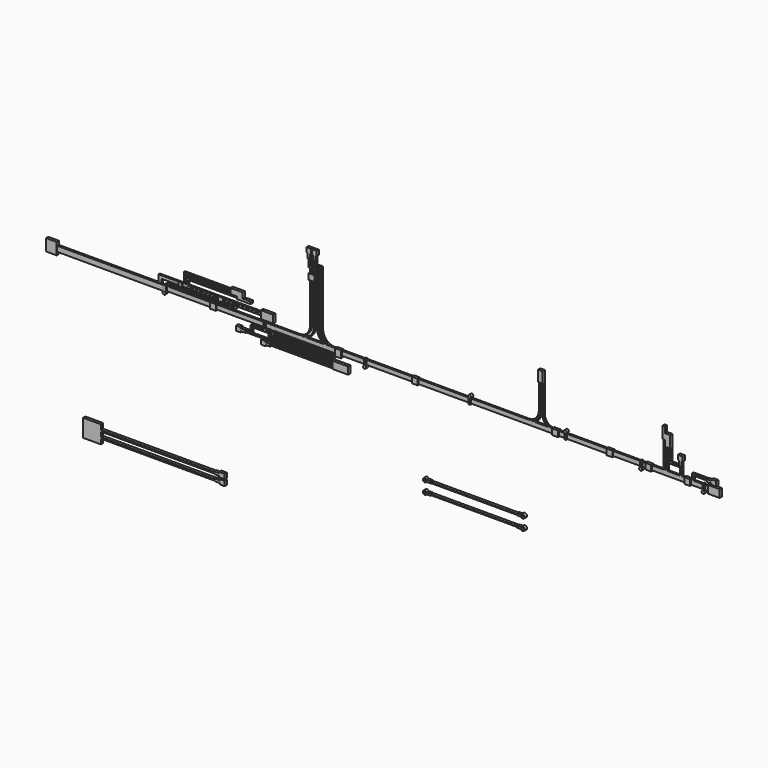
from build123d import *

# Parameters (mm, degrees)
F0_W     = 22.86
F0_H     = 25.4
F1_DEPTH = 6.096
F0_W_2   = 25.4
F0_H_2   = 16.764
F0_W_3   = 26.67
F0_R     = 2.3635919975
F0_W_4   = 12.7
F0_H_3   = 12.7
F0_W_5   = 34.036
F0_H_4   = 15.748
F0_W_6   = 10.16
F0_H_5   = 5.08
F0_H_6   = 15.3304640275
F0_H_7   = 23.622
F0_W_7   = 5.08
F0_H_8   = 10.16
F0_W_8   = 92.964
F0_H_9   = 1.8587335944
F0_W_9   = 244.618363442
F0_H_10  = 3.175
F0_W_10  = 8.0604091395
F0_W_11  = 246.38
F0_W_12  = 7.62
F0_W_13  = 5.960818279
F2_W     = 6.4132213593
F2_H     = 10.1765891636
F2_W_2   = 0.9059309959
F2_H_2   = 5.6318921805
F2_W_3   = 3.556
F2_H_3   = 18.4741660447
F2_H_4   = 3.048
F2_W_4   = 6.957018885
F2_H_5   = 9.3531730579
F2_H_6   = 10.0921660447
F2_W_5   = 2.2376532227
F2_H_7   = 0.7623659463
F2_W_6   = 1.7305150948
F2_H_8   = 2.188667655
F2_W_7   = 129.8955763153
F2_H_9   = 5.3835893269
F2_W_8   = 138.047620504
F2_W_9   = 9.0667009354
F2_H_10  = 1.905
F2_H_11  = 15.8542529154
F2_W_10  = 6.8061466293
F2_H_12  = 2.4892325196
F2_W_11  = 0.0254
F2_W_12  = 1.5908556366
F2_W_13  = 1.9332304916
F2_W_14  = 128.8783483963
F2_W_15  = 4.3891017075
F2_W_16  = 186.9186
F2_W_17  = 9.9817093201
F2_H_13  = 1.7232894897
F2_W_18  = 3.81
F2_H_14  = 46.0375
F2_W_19  = 19.685
F2_H_15  = 3.81
F2_H_16  = 58.7375
F2_W_20  = 2.3290925112
F2_H_17  = 60.5155
F3_DEPTH = 3.81
F4_W     = 10.7395805091
F4_H     = 9.330553934
F5_DEPTH = 2.032
F4_W_2   = 7.62
F4_H_2   = 8.89


with BuildPart() as f1:
    # F0 (on Front) → F1 (new body)
    with BuildSketch(Plane.XZ):
        with Locations((-1273.3713472137, 0)):
            Rectangle(F0_W, F0_H)
    extrude(amount=F1_DEPTH)


with BuildPart() as f1b:
    # F0 (on Front) → F1, piece 2 (new body)
    with BuildSketch(Plane.XZ):
        with Locations((152.8386527863, 0)):
            Rectangle(F0_W_2, F0_H_2)
    extrude(amount=F1_DEPTH)


with BuildPart() as f1c:
    # F0 (on Front) → F1, piece 3 (new body)
    with BuildSketch(Plane.XZ):
        with Locations((-809.1863472137, 18.1140891636)):
            Rectangle(F0_W_3, F0_H_2)
    extrude(amount=F1_DEPTH)


with BuildPart() as f1d:
    # F0 (on Front) → F1, piece 4 (new body)
    with BuildSketch(Plane.XZ):
        Polygon((-844.1113472137, 35.6992552083), (-861.6373472137, 35.6992552083), (-874.0833472137, 35.6992552083), (-874.0833472137, 30.6192552083), (-844.1113472137, 30.6192552083), align=None)
        Polygon((-874.0833472137, 35.6992552083), (-861.6373472137, 35.6992552083), (-861.6373472137, 47.3832552083), (-888.0533472137, 47.3832552083), (-888.0533472137, 35.6992552083), align=None)
    extrude(amount=F1_DEPTH)


with BuildPart() as f1e:
    # F0 (on Front) → F1, piece 5 (new body)
    with BuildSketch(Plane.XZ):
        with BuildLine():
            Line((-895.1653472137, 8.2480996974), (-886.5293472137, 8.2480996974))
            ThreePointArc((-886.5293472137, 8.2480996974), (-878.4013472137, 10.2800996974), (-886.5293472137, 12.3120996974))
            Line((-886.5293472137, 12.3120996974), (-895.1653472137, 12.3120996974))
            Line((-895.1653472137, 12.3120996974), (-895.1653472137, 8.2480996974))
        make_face()
        with Locations((-882.7193472137, 10.2800996974)):
            Circle(F0_R, mode=Mode.SUBTRACT)
    extrude(amount=F1_DEPTH)


with BuildPart() as f1f:
    # F0 (on Front) → F1, piece 6 (new body)
    with BuildSketch(Plane.XZ):
        with BuildLine():
            Line((-1029.0233414084, 6.35), (-1032.5793530191, 6.35))
            Line((-1032.5793530191, 6.35), (-1032.611806955, -6.35))
            ThreePointArc((-1032.611806955, -6.35), (-1030.8338011497, -5.8054601035), (-1029.0557953443, -6.35))
            Line((-1029.0557953443, -6.35), (-1029.0233414084, 6.35))
        make_face()
        with BuildLine():
            ThreePointArc((-1029.0557953443, -6.35), (-1030.8338011497, -5.8054601035), (-1032.611806955, -6.35))
            Line((-1032.611806955, -6.35), (-1029.0557953443, -6.35))
        make_face()
        with BuildLine():
            Line((-1029.0557953443, -6.35), (-1032.611806955, -6.35))
            ThreePointArc((-1032.611806955, -6.35), (-1032.3230050591, -11.7845458219), (-1027.6588011497, -8.9804601035))
            ThreePointArc((-1027.6588011497, -8.9804601035), (-1028.0297154313, -7.491256194), (-1029.0557953443, -6.35))
        make_face()
    extrude(amount=F1_DEPTH)


with BuildPart() as f1g:
    # F0 (on Front) → F1, piece 7 (new body)
    with BuildSketch(Plane.XZ):
        with Locations((-925.6569551468, 0)):
            Rectangle(F0_W_4, F0_H_3)
    extrude(amount=F1_DEPTH)


with BuildPart() as f1h:
    # F0 (on Front) → F1, piece 8 (new body)
    with BuildSketch(Plane.XZ):
        with BuildLine():
            Line((-813.1233537366, -6.35), (-813.1233472137, 6.35))
            Line((-813.1233472137, 6.35), (-816.6793472137, 6.35))
            Line((-816.6793472137, 6.35), (-816.6793537366, -6.35))
            ThreePointArc((-816.6793537366, -6.35), (-814.9013537366, -5.8054640275), (-813.1233537366, -6.35))
        make_face()
        with BuildLine():
            ThreePointArc((-811.7263537366, -8.9804640275), (-812.0972696615, -7.4912570238), (-813.1233537366, -6.35))
            ThreePointArc((-813.1233537366, -6.35), (-814.9013537366, -5.8054640275), (-816.6793537366, -6.35))
            ThreePointArc((-816.6793537366, -6.35), (-816.3905607403, -11.7845481026), (-811.7263537366, -8.9804640275))
        make_face()
    extrude(amount=F1_DEPTH)


with BuildPart() as f1i:
    # F0 (on Front) → F1, piece 9 (new body)
    with BuildSketch(Plane.XZ):
        with BuildLine():
            Line((-597.2233472137, 6.35), (-600.7793472137, 6.35))
            Line((-600.7793472137, 6.35), (-600.7793537366, -6.35))
            ThreePointArc((-600.7793537366, -6.35), (-599.0013537366, -5.8054640275), (-597.2233537366, -6.35))
            Line((-597.2233537366, -6.35), (-597.2233472137, 6.35))
        make_face()
        with BuildLine():
            ThreePointArc((-597.2233537366, -6.35), (-599.0013537366, -5.8054640275), (-600.7793537366, -6.35))
            ThreePointArc((-600.7793537366, -6.35), (-600.4905607403, -11.7845481026), (-595.8263537366, -8.9804640275))
            ThreePointArc((-595.8263537366, -8.9804640275), (-596.1972696615, -7.4912570238), (-597.2233537366, -6.35))
        make_face()
    extrude(amount=F1_DEPTH)


with BuildPart() as f1j:
    # F0 (on Front) → F1, piece 10 (new body)
    with BuildSketch(Plane.XZ):
        with Locations((-651.5793472137, -27.0144640275)):
            Rectangle(F0_W_5, F0_H_4)
    extrude(amount=F1_DEPTH)


with BuildPart() as f1k:
    # F0 (on Front) → F1, piece 11 (new body)
    with BuildSketch(Plane.XZ):
        Polygon((-812.3613472137, -28.6287721895), (-822.5213472137, -28.6287721895), (-822.5213472137, -38.7887721895), (-812.3613472137, -38.7887721895), (-812.3613472137, -36.2487721895), (-812.3613472137, -31.1687721895), align=None)
        with Locations((-807.2813472137, -33.7087721895)):
            Rectangle(F0_W_6, F0_H_5)
    extrude(amount=F1_DEPTH)


with BuildPart() as f1l:
    # F0 (on Front) → F1, piece 12 (new body)
    with BuildSketch(Plane.XZ):
        Polygon((-865.7013472137, -19.8714235197), (-875.8613472137, -19.8714235197), (-875.8613472137, -30.0314235197), (-865.7013472137, -30.0314235197), (-865.7013472137, -27.4914235197), (-865.7013472137, -22.4114235197), align=None)
        with Locations((-860.6213472137, -24.9514235197)):
            Rectangle(F0_W_6, F0_H_5)
    extrude(amount=F1_DEPTH)


with BuildPart() as f1m:
    # F0 (on Front) → F1, piece 13 (new body)
    with BuildSketch(Plane.XZ):
        with Locations((-656.1513472137, -1.3152320138)):
            Rectangle(F0_W_4, F0_H_6)
    extrude(amount=F1_DEPTH)


with BuildPart() as f1n:
    # F0 (on Front) → F1, piece 14 (new body)
    with BuildSketch(Plane.XZ):
        Polygon((-714.1644205284, 177.8), (-724.3244205284, 177.8), (-724.3244205284, 167.64), (-721.7844205284, 167.64), (-716.7044205284, 167.64), (-714.1644205284, 167.64), align=None)
        Polygon((-716.7044205284, 167.64), (-721.7844205284, 167.64), (-721.7844205284, 157.48), (-719.6513472137, 157.48), (-716.7044205284, 157.48), align=None)
    extrude(amount=F1_DEPTH)


with BuildPart() as f1o:
    # F0 (on Front) → F1, piece 15 (new body)
    with BuildSketch(Plane.XZ):
        Polygon((-704.8182738991, 167.64), (-702.2782738991, 167.64), (-702.2782738991, 177.8), (-712.4382738991, 177.8), (-712.4382738991, 167.64), (-709.8982738991, 167.64), align=None)
        Polygon((-704.8182738991, 157.48), (-704.8182738991, 167.64), (-709.8982738991, 167.64), (-709.8982738991, 157.48), (-706.9513472137, 157.48), align=None)
    extrude(amount=F1_DEPTH)


with BuildPart() as f1p:
    # F0 (on Front) → F1, piece 16 (new body)
    with BuildSketch(Plane.XZ):
        with Locations((-713.3013472137, 123.825)):
            Rectangle(F0_W_4, F0_H_3)
    extrude(amount=F1_DEPTH)


with BuildPart() as f1q:
    # F0 (on Front) → F1, piece 17 (new body)
    with BuildSketch(Plane.XZ):
        with BuildLine():
            ThreePointArc((-371.1633472137, 6.35), (-372.9413472137, 5.8054640275), (-374.7193472137, 6.35))
            Line((-374.7193472137, 6.35), (-374.7193537366, -6.35))
            Line((-374.7193537366, -6.35), (-371.1633537366, -6.35))
            Line((-371.1633537366, -6.35), (-371.1633472137, 6.35))
        make_face()
        with BuildLine():
            ThreePointArc((-369.7663472137, 8.9804640275), (-374.4305542175, 11.7845481026), (-374.7193472137, 6.35))
            Line((-374.7193472137, 6.35), (-371.1633472137, 6.35))
            ThreePointArc((-371.1633472137, 6.35), (-370.1372631387, 7.4912570238), (-369.7663472137, 8.9804640275))
        make_face()
        with BuildLine():
            Line((-371.1633472137, 6.35), (-374.7193472137, 6.35))
            ThreePointArc((-374.7193472137, 6.35), (-372.9413472137, 5.8054640275), (-371.1633472137, 6.35))
        make_face()
    extrude(amount=F1_DEPTH)


with BuildPart() as f1r:
    # F0 (on Front) → F1, piece 18 (new body)
    with BuildSketch(Plane.XZ):
        with Locations((-491.0513472137, 0)):
            Rectangle(F0_W_4, F0_H_3)
    extrude(amount=F1_DEPTH)


with BuildPart() as f1s:
    # F0 (on Front) → F1, piece 19 (new body)
    with BuildSketch(Plane.XZ):
        with BuildLine():
            ThreePointArc((-165.4233406909, 6.35), (-167.2013406909, 5.8054640275), (-168.9793406909, 6.35))
            Line((-168.9793406909, 6.35), (-168.9793472137, -6.35))
            Line((-168.9793472137, -6.35), (-165.4233472137, -6.35))
            Line((-165.4233472137, -6.35), (-165.4233406909, 6.35))
        make_face()
        with BuildLine():
            ThreePointArc((-164.0263406909, 8.9804640275), (-168.6905476947, 11.7845481026), (-168.9793406909, 6.35))
            Line((-168.9793406909, 6.35), (-165.4233406909, 6.35))
            ThreePointArc((-165.4233406909, 6.35), (-164.3972566159, 7.4912570238), (-164.0263406909, 8.9804640275))
        make_face()
        with BuildLine():
            Line((-165.4233406909, 6.35), (-168.9793406909, 6.35))
            ThreePointArc((-168.9793406909, 6.35), (-167.2013406909, 5.8054640275), (-165.4233406909, 6.35))
        make_face()
    extrude(amount=F1_DEPTH)


with BuildPart() as f1t:
    # F0 (on Front) → F1, piece 20 (new body)
    with BuildSketch(Plane.XZ):
        with BuildLine():
            Line((-2.8633406909, 6.35), (-6.4193406909, 6.35))
            Line((-6.4193406909, 6.35), (-6.4193472137, -6.35))
            ThreePointArc((-6.4193472137, -6.35), (-4.6413472137, -5.8054640275), (-2.8633472137, -6.35))
            Line((-2.8633472137, -6.35), (-2.8633406909, 6.35))
        make_face()
        with BuildLine():
            ThreePointArc((-2.8633472137, -6.35), (-4.6413472137, -5.8054640275), (-6.4193472137, -6.35))
            ThreePointArc((-6.4193472137, -6.35), (-6.1305542175, -11.7845481026), (-1.4663472137, -8.9804640275))
            ThreePointArc((-1.4663472137, -8.9804640275), (-1.8372631387, -7.4912570238), (-2.8633472137, -6.35))
        make_face()
    extrude(amount=F1_DEPTH)


with BuildPart() as f1u:
    # F0 (on Front) → F1, piece 21 (new body)
    with BuildSketch(Plane.XZ):
        with Locations((-188.7913537366, 0)):
            Rectangle(F0_W_4, F0_H_3)
    extrude(amount=F1_DEPTH)


with BuildPart() as f1v:
    # F0 (on Front) → F1, piece 22 (new body)
    with BuildSketch(Plane.XZ):
        with Locations((-71.9513472137, 0)):
            Rectangle(F0_W_4, F0_H_3)
    extrude(amount=F1_DEPTH)


with BuildPart() as f1w:
    # F0 (on Front) → F1, piece 23 (new body)
    with BuildSketch(Plane.XZ):
        with Locations((11.8686527863, 0)):
            Rectangle(F0_W_4, F0_H_3)
    extrude(amount=F1_DEPTH)


with BuildPart() as f1x:
    # F0 (on Front) → F1, piece 24 (new body)
    with BuildSketch(Plane.XZ):
        with Locations((95.6886527863, 0)):
            Rectangle(F0_W_4, F0_H_3)
    extrude(amount=F1_DEPTH)


with BuildPart() as f1y:
    # F0 (on Front) → F1, piece 25 (new body)
    with BuildSketch(Plane.XZ):
        with BuildLine():
            ThreePointArc((128.2006527863, -6.35), (128.4894457825, -11.7845481026), (133.1536527863, -8.9804640275))
            ThreePointArc((133.1536527863, -8.9804640275), (132.7827368613, -7.4912570238), (131.7566527863, -6.35))
            ThreePointArc((131.7566527863, -6.35), (129.9786527863, -5.8054640275), (128.2006527863, -6.35))
        make_face()
        with BuildLine():
            ThreePointArc((128.2006527863, -6.35), (129.9786527863, -5.8054640275), (131.7566527863, -6.35))
            Line((131.7566527863, -6.35), (131.7566593091, 6.35))
            Line((131.7566593091, 6.35), (128.2006593091, 6.35))
            Line((128.2006593091, 6.35), (128.2006527863, -6.35))
        make_face()
    extrude(amount=F1_DEPTH)


with BuildPart() as f1z:
    # F0 (on Front) → F1, piece 26 (new body)
    with BuildSketch(Plane.XZ):
        with Locations((-220.5413472137, 96.139)):
            Rectangle(F0_W_6, F0_H_7)
    extrude(amount=F1_DEPTH)


with BuildPart() as f1ba:
    # F0 (on Front) → F1, piece 27 (new body)
    with BuildSketch(Plane.XZ):
        Polygon((157.9186527863, 21.082), (147.7586527863, 21.082), (147.7586527863, 18.542), (147.7586527863, 13.462), (147.7586527863, 10.922), (157.9186527863, 10.922), align=None)
        with Locations((142.6786527863, 16.002)):
            Rectangle(F0_W_6, F0_H_5)
    extrude(amount=F1_DEPTH)


with BuildPart() as f1bb:
    # F0 (on Front) → F1, piece 28 (new body)
    with BuildSketch(Plane.XZ):
        Polygon((85.5286527863, 44.45), (75.3686527863, 44.45), (75.3686527863, 34.29), (77.9086527863, 34.29), (82.9886527863, 34.29), (85.5286527863, 34.29), align=None)
        with Locations((80.4486527863, 29.21)):
            Rectangle(F0_W_7, F0_H_8)
    extrude(amount=F1_DEPTH)


with BuildPart() as f1bc:
    # F0 (on Front) → F1, piece 29 (new body)
    with BuildSketch(Plane.XZ):
        Polygon((58.8586527863, 76.2), (47.4286527863, 76.2), (47.4286527863, 63.5), (47.4286527863, 50.8), (58.8586527863, 50.8), align=None)
        Polygon((47.4286527863, 63.5), (47.4286527863, 76.2), (47.4286527863, 88.9), (42.3486527863, 88.9), (42.3486527863, 63.5), align=None)
    extrude(amount=F1_DEPTH)


with BuildPart() as f1bd:
    # F0 (on Front) → F1, piece 30 (new body)
    with BuildSketch(Plane.XZ):
        with BuildLine():
            Line((-270.889007555, -183.1056954212), (-262.253007555, -183.1056954212))
            ThreePointArc((-262.253007555, -183.1056954212), (-254.125007555, -181.0736954212), (-262.253007555, -179.0416954212))
            Line((-262.253007555, -179.0416954212), (-270.889007555, -179.0416954212))
            Line((-270.889007555, -179.0416954212), (-270.889007555, -180.4856657982))
            Line((-270.889007555, -180.4856657982), (-270.889007555, -182.3443993926))
            Line((-270.889007555, -182.3443993926), (-270.889007555, -183.1056954212))
        make_face()
        with Locations((-258.443007555, -181.0736954212)):
            Circle(F0_R, mode=Mode.SUBTRACT)
        with Locations((-317.371007555, -181.4150325954)):
            Rectangle(F0_W_8, F0_H_9)
        with Locations((-410.335007555, -181.4150325954)):
            Rectangle(F0_W_8, F0_H_9)
        with BuildLine():
            Line((-456.817007555, -183.1056954212), (-456.817007555, -182.3443993926))
            Line((-456.817007555, -182.3443993926), (-456.817007555, -180.4856657982))
            Line((-456.817007555, -180.4856657982), (-456.817007555, -179.0416954212))
            Line((-456.817007555, -179.0416954212), (-465.453007555, -179.0416954212))
            ThreePointArc((-465.453007555, -179.0416954212), (-473.581007555, -181.0736954212), (-465.453007555, -183.1056954212))
            Line((-465.453007555, -183.1056954212), (-456.817007555, -183.1056954212))
        make_face()
        with Locations((-469.263007555, -181.0736954212)):
            Circle(F0_R, mode=Mode.SUBTRACT)
    extrude(amount=F1_DEPTH)


with BuildPart() as f1be:
    # F0 (on Front) → F1, piece 31 (new body)
    with BuildSketch(Plane.XZ):
        with BuildLine():
            Line((-270.889007555, -206.6441954918), (-262.253007555, -206.6441954918))
            ThreePointArc((-262.253007555, -206.6441954918), (-254.125007555, -204.6121954918), (-262.253007555, -202.5801954918))
            Line((-262.253007555, -202.5801954918), (-270.889007555, -202.5801954918))
            Line((-270.889007555, -202.5801954918), (-270.889007555, -203.3414915204))
            Line((-270.889007555, -203.3414915204), (-270.889007555, -205.2002251148))
            Line((-270.889007555, -205.2002251148), (-270.889007555, -206.6441954918))
        make_face()
        with Locations((-258.443007555, -204.6121954918)):
            Circle(F0_R, mode=Mode.SUBTRACT)
        Polygon((-363.853007555, -205.2002251148), (-270.889007555, -205.2002251148), (-270.889007555, -203.3414915204), (-363.853007555, -203.3414915204), (-456.817007555, -203.3414915204), (-456.817007555, -205.2002251148), align=None)
        with BuildLine():
            Line((-456.817007555, -206.6441954918), (-456.817007555, -205.2002251148))
            Line((-456.817007555, -205.2002251148), (-456.817007555, -203.3414915204))
            Line((-456.817007555, -203.3414915204), (-456.817007555, -202.5801954918))
            Line((-456.817007555, -202.5801954918), (-465.453007555, -202.5801954918))
            ThreePointArc((-465.453007555, -202.5801954918), (-473.581007555, -204.6121954918), (-465.453007555, -206.6441954918))
            Line((-465.453007555, -206.6441954918), (-456.817007555, -206.6441954918))
        make_face()
        with Locations((-469.263007555, -204.6121954918)):
            Circle(F0_R, mode=Mode.SUBTRACT)
    extrude(amount=F1_DEPTH)


with BuildPart() as f1bf:
    # F0 (on Front) → F1, piece 32 (new body)
    with BuildSketch(Plane.XZ):
        Polygon((-1166.9777904199, -301.9225907594), (-1205.0777904199, -301.9225907594), (-1205.0777904199, -340.0225907594), (-1166.9777904199, -340.0225907594), (-1166.9777904199, -329.2275907594), (-1166.9777904199, -326.0525907594), (-1166.9777904199, -315.8925907594), (-1166.9777904199, -312.7175907594), align=None)
        with Locations((-1044.6686086989, -314.3050907594)):
            Rectangle(F0_W_9, F0_H_10)
        Polygon((-922.3594269779, -311.7650907594), (-922.3594269779, -312.7175907594), (-914.2990178384, -312.7175907594), (-914.2990178384, -315.8925907594), (-922.3594269779, -315.8925907594), (-922.3594269779, -316.8450907594), (-912.1994269779, -316.8450907594), (-912.1994269779, -311.7650907594), align=None)
        with Locations((-918.3292224082, -314.3050907594)):
            Rectangle(F0_W_10, F0_H_10)
        with Locations((-1043.7877904199, -327.6400907594)):
            Rectangle(F0_W_11, F0_H_10)
        with Locations((-916.7877904199, -327.6400907594)):
            Rectangle(F0_W_12, F0_H_10)
        Polygon((-912.9777904199, -329.2275907594), (-920.5977904199, -329.2275907594), (-920.5977904199, -330.1800907594), (-910.4377904199, -330.1800907594), (-910.4377904199, -325.1000907594), (-920.5977904199, -325.1000907594), (-920.5977904199, -326.0525907594), (-912.9777904199, -326.0525907594), align=None)
        Polygon((-912.1994269779, -309.2250907594), (-912.1994269779, -311.7650907594), (-906.2386086989, -311.7650907594), (-906.2386086989, -316.8450907594), (-912.1994269779, -316.8450907594), (-912.1994269779, -319.3850907594), (-900.2777904199, -319.3850907594), (-900.2777904199, -309.2250907594), align=None)
        with Locations((-909.2190178384, -314.3050907594)):
            Rectangle(F0_W_13, F0_H_5)
        with Locations((-907.8977904199, -327.6400907594)):
            Rectangle(F0_W_7, F0_H_5)
        Polygon((-905.3577904199, -330.1800907594), (-910.4377904199, -330.1800907594), (-910.4377904199, -332.7200907594), (-900.2777904199, -332.7200907594), (-900.2777904199, -322.5600907594), (-910.4377904199, -322.5600907594), (-910.4377904199, -325.1000907594), (-905.3577904199, -325.1000907594), align=None)
    extrude(amount=F1_DEPTH)


with BuildPart() as f3:
    # F2 (on Front) → F3 (new body)
    with BuildSketch(Plane.XZ):
        with BuildLine():
            Line((-1078.5486698151, 4.7625), (-1261.9413472137, 4.7625))
            Line((-1261.9413472137, 4.7625), (-1261.9413472137, -4.7625))
            Line((-1261.9413472137, -4.7625), (-810.6971036753, -4.7625))
            Line((-810.6971036753, -4.7625), (-808.8622270752, -4.7625))
            Line((-808.8622270752, -4.7625), (-808.7352270752, -4.7625))
            Line((-808.7352270752, -4.7625), (-807.5762987137, -4.7625))
            Line((-807.5762987137, -4.7625), (-806.6703677177, -4.7625))
            Line((-806.6703677177, -4.7625), (-799.7133488328, -4.7625))
            Line((-799.7133488328, -4.7625), (-799.7133488328, -10.3943921805))
            Line((-799.7133488328, -10.3943921805), (-797.47569561, -10.3943921805))
            Line((-797.47569561, -10.3943921805), (-797.47569561, -4.7625))
            Line((-797.47569561, -4.7625), (-667.5801192947, -4.7625))
            Line((-667.5801192947, -4.7625), (-664.5321192947, -4.7625))
            Line((-664.5321192947, -4.7625), (140.1386527863, -4.7625))
            Line((140.1386527863, -4.7625), (140.1386527863, 4.7625))
            Line((140.1386527863, 4.7625), (107.6234768605, 4.7625))
            Line((107.6234768605, 4.7625), (103.8134768605, 4.7625))
            Line((103.8134768605, 4.7625), (82.3536527863, 4.7625))
            Line((82.3536527863, 4.7625), (78.5436527863, 4.7625))
            Line((78.5436527863, 4.7625), (51.2386527863, 4.7625))
            Line((51.2386527863, 4.7625), (47.4286527863, 4.7625))
            Line((47.4286527863, 4.7625), (46.1586527863, 4.7625))
            Line((46.1586527863, 4.7625), (42.3486527863, 4.7625))
            Line((42.3486527863, 4.7625), (-186.7075800792, 4.7625))
            ThreePointArc((-186.7075800792, 4.7625), (-196.4113472137, 2.4334074888), (-206.1151143483, 4.7625))
            Line((-206.1151143483, 4.7625), (-234.1434663815, 4.7625))
            ThreePointArc((-234.1434663815, 4.7625), (-224.1444484275, 15.7522545815), (-220.5250710249, 30.1625))
            Line((-220.5250710249, 30.1625), (-220.5250710249, 84.328))
            Line((-220.5250710249, 84.328), (-222.6665914059, 84.328))
            Line((-222.6665914059, 84.328), (-222.6665914059, 30.1625))
            ThreePointArc((-222.6665914059, 30.1625), (-226.92421768, 15.2185873545), (-238.4184833755, 4.7625))
            Line((-238.4184833755, 4.7625), (-240.7264788227, 4.7625))
            ThreePointArc((-240.7264788227, 4.7625), (-228.2914561196, 14.8492258224), (-223.6143350601, 30.1625))
            Line((-223.6143350601, 30.1625), (-223.6143350601, 84.328))
            Line((-223.6143350601, 84.328), (-225.6213472137, 84.328))
            Line((-225.6213472137, 84.328), (-225.6213472137, 30.1625))
            ThreePointArc((-225.6213472137, 30.1625), (-233.0608349716, 12.2019877579), (-251.0213472137, 4.7625))
            Line((-251.0213472137, 4.7625), (-667.7060494843, 4.7625))
            Line((-667.7060494843, 4.7625), (-677.2404529426, 4.7625))
            Line((-677.2404529426, 4.7625), (-686.3395170948, 4.7625))
            Line((-686.3395170948, 4.7625), (-706.9513472137, 4.7625))
            Line((-706.9513472137, 4.7625), (-709.8982738991, 4.7625))
            Line((-709.8982738991, 4.7625), (-716.7044205284, 4.7625))
            Line((-716.7044205284, 4.7625), (-719.6513472137, 4.7625))
            Line((-719.6513472137, 4.7625), (-725.2014680126, 4.7625))
            ThreePointArc((-725.2014680126, 4.7625), (-712.6809817133, 14.814419231), (-707.9650434074, 30.1625))
            Line((-707.9650434074, 30.1625), (-707.9650434074, 139.4370794296))
            Line((-707.9650434074, 139.4370794296), (-709.8982738991, 139.4370794296))
            Line((-709.8982738991, 139.4370794296), (-709.8982738991, 30.1625))
            ThreePointArc((-709.8982738991, 30.1625), (-716.8893208393, 12.6619158028), (-734.0140571465, 4.7949855902))
            Line((-734.0140571465, 4.7949855902), (-734.0140571465, 4.7625))
            Line((-734.0140571465, 4.7625), (-734.3005321648, 4.7625))
            ThreePointArc((-734.3005321648, 4.7625), (-721.5331629778, 14.7127172773), (-716.7044205284, 30.1625))
            Line((-716.7044205284, 30.1625), (-716.7044205284, 139.4370794296))
            Line((-716.7044205284, 139.4370794296), (-718.4349356232, 139.4370794296))
            Line((-718.4349356232, 139.4370794296), (-718.4349356232, 30.1625))
            ThreePointArc((-718.4349356232, 30.1625), (-725.874423381, 12.2019877579), (-743.8349356232, 4.7625))
            Line((-743.8349356232, 4.7625), (-1022.1653472137, 4.7625))
            Line((-1022.1653472137, 4.7625), (-1025.7213472137, 4.7625))
            Line((-1025.7213472137, 4.7625), (-1038.3222103119, 4.7625))
            Line((-1038.3222103119, 4.7625), (-1044.7354316711, 4.7625))
            Line((-1044.7354316711, 4.7625), (-1077.4735414505, 4.7625))
            Line((-1077.4735414505, 4.7625), (-1078.5486698151, 4.7625))
        make_face()
        with Locations((-1041.5288209915, 9.8507945818)):
            Rectangle(F2_W, F2_H)
        Polygon((-1044.7354316711, 21.2890891636), (-1044.7354316711, 14.9390891636), (-1038.3222103119, 14.9390891636), (-822.5213472137, 14.9390891636), (-822.5213472137, 17.9870891636), (-984.0653472137, 17.9870891636), (-984.0653472137, 18.2410891636), (-822.5213472137, 18.2410891636), (-822.5213472137, 21.2890891636), (-980.5093472137, 21.2890891636), (-984.0653472137, 21.2890891636), (-986.6053472137, 21.2890891636), (-990.1613472137, 21.2890891636), align=None)
        Polygon((-1025.7213472137, 12.0580996974), (-1025.7213472137, 4.7625), (-1022.1653472137, 4.7625), (-1022.1653472137, 8.5020996974), (-895.1653472137, 8.5020996974), (-895.1653472137, 12.0580996974), align=None)
        with Locations((-807.1233332157, -7.5784460903)):
            Rectangle(F2_W_2, F2_H_2)
        with Locations((-988.3833472137, 30.5261721859)):
            Rectangle(F2_W_3, F2_H_3)
        Polygon((-807.5762987137, -13.4423921805), (-807.5762987137, -10.3943921805), (-846.4746462784, -10.3943921805), (-846.4746462784, -13.4423921805), (-843.4266462784, -13.4423921805), align=None)
        with Locations((-807.1233332157, -11.9183921805)):
            Rectangle(F2_W_2, F2_H_4)
        Polygon((-990.1613472137, 43.3192552083), (-990.1613472137, 39.7632552083), (-986.6053472137, 39.7632552083), (-888.0533472137, 39.7632552083), (-888.0533472137, 43.3192552083), align=None)
        with Locations((-803.1918582752, -11.9183921805)):
            Rectangle(F2_W_4, F2_H_4)
        with Locations((-807.1233332157, -18.1189787095)):
            Rectangle(F2_W_2, F2_H_5)
        with Locations((-982.2873472137, 26.3351721859)):
            Rectangle(F2_W_3, F2_H_6)
        with Locations((-798.5945222214, -11.9183921805)):
            Rectangle(F2_W_5, F2_H_4)
        Polygon((-843.4266462784, -13.4423921805), (-846.4746462784, -13.4423921805), (-846.4746462784, -22.4114235197), (-846.4746462784, -24.3164235197), (-843.4266462784, -24.3164235197), align=None)
        with Locations((-807.1233332157, -23.1767482116)):
            Rectangle(F2_W_2, F2_H_7)
        Polygon((-721.7844205284, 139.4370794296), (-718.4349356232, 139.4370794296), (-718.4349356232, 141.6257470846), (-720.1935648918, 141.6257470846), (-721.7844205284, 141.6257470846), align=None)
        with Locations((-717.5696780758, 140.5314132571)):
            Rectangle(F2_W_6, F2_H_8)
        Polygon((-984.0653472137, 34.9372552083), (-984.0653472137, 31.3812552083), (-980.5093472137, 31.3812552083), (-874.0833472137, 31.3812552083), (-874.0833472137, 34.9372552083), align=None)
        with Locations((-732.5279074524, -11.9183921805)):
            Rectangle(F2_W_7, F2_H_4)
        with Locations((-798.5945222214, -16.134186844)):
            Rectangle(F2_W_5, F2_H_9)
        with Locations((-737.6465574657, -23.1767482116)):
            Rectangle(F2_W_8, F2_H_7)
        with Locations((-851.0079967461, -23.3639235197)):
            Rectangle(F2_W_9, F2_H_10)
        with Locations((-717.5696780758, 149.5528735423)):
            Rectangle(F2_W_6, F2_H_11)
        with Locations((-713.3013472137, 140.5314132571)):
            Rectangle(F2_W_10, F2_H_8)
        Polygon((-667.5801192947, -4.7625), (-667.5801192947, -10.3943921805), (-667.5801192947, -13.4423921805), (-664.5321192947, -13.4423921805), (-664.5321192947, -4.7625), align=None)
        with Locations((-798.5945222214, -20.0705977673)):
            Rectangle(F2_W_5, F2_H_12)
        with Locations((-668.6100472137, -23.1767482116)):
            Rectangle(F2_W_11, F2_H_7)
        with Locations((-720.9889927101, 149.5528735423)):
            Rectangle(F2_W_12, F2_H_11)
        with Locations((-708.9316586533, 140.5314132571)):
            Rectangle(F2_W_13, F2_H_8)
        with Locations((-733.0365214119, -20.0705977673)):
            Rectangle(F2_W_14, F2_H_12)
        Polygon((-668.5973472137, -23.5579311848), (-668.6227472137, -23.5579311848), (-668.6227472137, -25.5864235197), (-668.6227472137, -27.4914235197), (-668.6227472137, -32.1021308522), (-668.5973472137, -32.1021308522), align=None)
        with Locations((-708.9316586533, 149.5528735423)):
            Rectangle(F2_W_13, F2_H_11)
        with Locations((-705.7704925537, 140.5314132571)):
            Rectangle(F2_W_15, F2_H_8)
        with Locations((-762.0820472137, -26.5389235197)):
            Rectangle(F2_W_16, F2_H_10)
        with BuildLine():
            Line((-701.6427112083, 139.4370794296), (-703.5759417, 139.4370794296))
            Line((-703.5759417, 139.4370794296), (-703.5759417, 30.1625))
            ThreePointArc((-703.5759417, 30.1625), (-698.8600033941, 14.814419231), (-686.3395170948, 4.7625))
            Line((-686.3395170948, 4.7625), (-677.2404529426, 4.7625))
            ThreePointArc((-677.2404529426, 4.7625), (-677.2696125805, 4.7734647641), (-677.2987596086, 4.7844630039))
            ThreePointArc((-677.2987596086, 4.7844630039), (-694.572790714, 12.5793209554), (-701.6427112083, 30.1625))
            Line((-701.6427112083, 30.1625), (-701.6427112083, 139.4370794296))
        make_face()
        with Locations((-702.6093264542, 140.5314132571)):
            Rectangle(F2_W_13, F2_H_8)
        Polygon((-668.5973472137, -35.3154135268), (-668.5973472137, -32.1021308522), (-668.6227472137, -32.1021308522), (-802.2013472137, -32.1021308522), (-802.2013472137, -35.3154135268), align=None)
        Polygon((103.8134768605, 4.7625), (107.6234768605, 4.7625), (107.6234768605, 14.097), (137.5986527863, 14.097), (137.5986527863, 17.907), (103.8134768605, 17.907), align=None)
        with BuildLine():
            ThreePointArc((-677.2987596086, 4.7844630039), (-677.2696125805, 4.7734647641), (-677.2404529426, 4.7625))
            Line((-677.2404529426, 4.7625), (-667.7060494843, 4.7625))
            ThreePointArc((-667.7060494843, 4.7625), (-685.6665617264, 12.2019877579), (-693.1060494843, 30.1625))
            Line((-693.1060494843, 30.1625), (-693.1060494843, 147.1802592278))
            Line((-693.1060494843, 147.1802592278), (-694.836564579, 147.1802592278))
            Line((-694.836564579, 147.1802592278), (-694.836564579, 30.1625))
            ThreePointArc((-694.836564579, 30.1625), (-690.0255478672, 14.738335801), (-677.2987596086, 4.7844630039))
        make_face()
        Polygon((78.5436527863, 4.7625), (82.3536527863, 4.7625), (82.3536527863, 24.13), (78.5436527863, 24.13), (78.5436527863, 20.32), align=None)
        with Locations((-699.827419239, 148.0419039726)):
            Rectangle(F2_W_17, F2_H_13)
        with Locations((-693.9713070316, 148.0419039726)):
            Rectangle(F2_W_6, F2_H_13)
        Polygon((-706.4971923828, 147.1802592278), (-704.8182738991, 147.1802592278), (-704.8182738991, 148.9035487175), (-704.8182738991, 157.48), (-706.4971923828, 157.48), align=None)
        with Locations((49.3336527863, 27.78125)):
            Rectangle(F2_W_18, F2_H_14)
        with Locations((68.7011527863, 22.225)):
            Rectangle(F2_W_19, F2_H_15)
        Polygon((55.0486527863, 20.32), (58.8586527863, 20.32), (58.8586527863, 24.13), (58.8586527863, 50.8), (55.0486527863, 50.8), align=None)
        with Locations((44.2536527863, 34.13125)):
            Rectangle(F2_W_18, F2_H_16)
        with BuildLine():
            ThreePointArc((-206.1151143483, 4.7625), (-196.4113472137, 2.4334074888), (-186.7075800792, 4.7625))
            Line((-186.7075800792, 4.7625), (-196.4113472137, 4.7625))
            Line((-196.4113472137, 4.7625), (-206.1151143483, 4.7625))
        make_face()
        with BuildLine():
            Line((-206.1151143483, 4.7625), (-196.4113472137, 4.7625))
            ThreePointArc((-196.4113472137, 4.7625), (-209.8817313953, 10.3421158184), (-215.4613472137, 23.8125))
            Line((-215.4613472137, 23.8125), (-217.7904397249, 23.8125))
            ThreePointArc((-217.7904397249, 23.8125), (-214.6393933498, 12.640932041), (-206.1151143483, 4.7625))
        make_face()
        with Locations((-216.6258934693, 54.07025)):
            Rectangle(F2_W_20, F2_H_17)
    extrude(amount=F3_DEPTH)


with BuildPart() as f5:
    # F4 (on face) → F5 (new body)
    with BuildSketch(Plane.XZ.offset(3.81)):
        with Locations((-909.1711374683, 18.6358960345)):
            Rectangle(F4_W, F4_H)
    extrude(amount=F5_DEPTH)


with BuildPart() as f5b:
    # F4 (on face) → F5, piece 2 (new body)
    with BuildSketch(Plane.XZ.offset(3.81)):
        with Locations((-996.5113472137, 18.5470819402)):
            Rectangle(F4_W_2, F4_H_2)
    extrude(amount=F5_DEPTH)


with BuildPart() as f5c:
    # F4 (on face) → F5, piece 3 (new body)
    with BuildSketch(Plane.XZ.offset(3.81)):
        Polygon((-1026.7543782847, 5.715), (-1261.9413472137, 5.715), (-1261.9413472137, -5.715), (-1032.6020707743, -5.715), (-1026.7543782847, -5.715), align=None)
    extrude(amount=F5_DEPTH)


solid = Compound([f1.part, f1b.part, f1c.part, f1d.part, f1e.part, f1f.part, f1g.part, f1h.part, f1i.part, f1j.part, f1k.part, f1l.part, f1m.part, f1n.part, f1o.part, f1p.part, f1q.part, f1r.part, f1s.part, f1t.part, f1u.part, f1v.part, f1w.part, f1x.part, f1y.part, f1z.part, f1ba.part, f1bb.part, f1bc.part, f1bd.part, f1be.part, f1bf.part, f3.part, f5.part, f5b.part, f5c.part])
